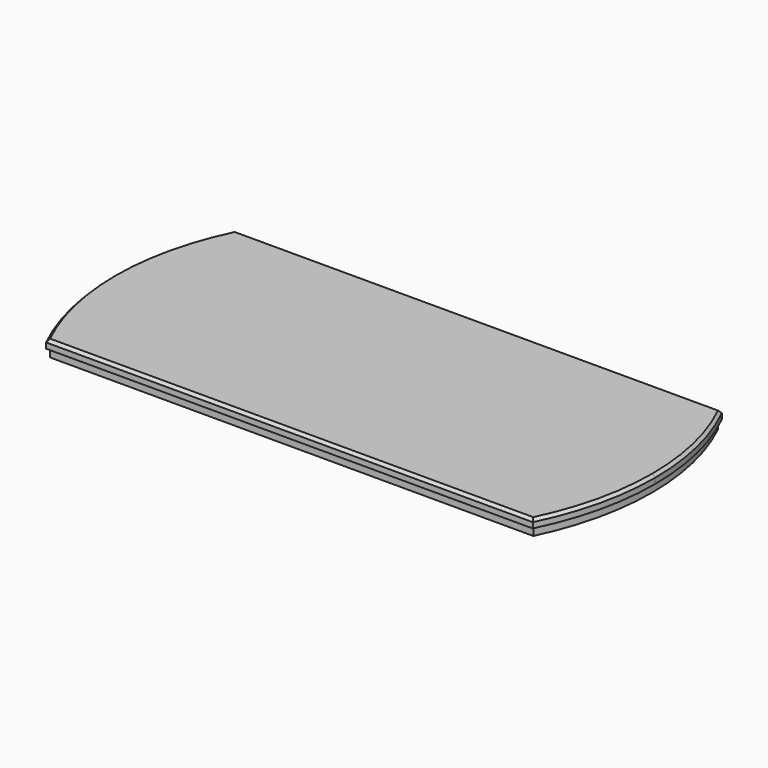
from build123d import *

# Parameters (mm, degrees)
F0_W     = 1244.6
F0_H     = 38.1
F1_DEPTH = 271.4625
F3_DEPTH = 38.101
F4_SIZE  = 6.35
F6_DEPTH = 19.05
F8_DEPTH = 19.05


with BuildPart() as f1:
    # F0 (on Front) → F1 (new body, symmetric)
    with BuildSketch(Plane.XZ):
        Rectangle(F0_W, F0_H)
    extrude(amount=F1_DEPTH, both=True)

    # F2 (on face) → F3 (cut, through all)
    with BuildSketch(Plane.XY.offset(19.05)):
        with BuildLine():
            ThreePointArc((-622.3, 0), (-606.213585, 139.395246), (-558.8, 271.4625))
            Line((-558.8, 271.4625), (-622.3, 271.4625))
            Line((-622.3, 271.4625), (-622.3, 0))
        make_face()
        with BuildLine():
            ThreePointArc((-558.8, -271.4625), (-606.213585, -139.395246), (-622.3, 0))
            Line((-622.3, 0), (-622.3, -271.4625))
            Line((-622.3, -271.4625), (-558.8, -271.4625))
        make_face()
        with BuildLine():
            Line((622.3, 271.4625), (558.8, 271.4625))
            ThreePointArc((558.8, 271.4625), (606.213585, 139.395246), (622.3, 0))
            Line((622.3, 0), (622.3, 271.4625))
        make_face()
        with BuildLine():
            Line((622.3, -271.4625), (622.3, 0))
            ThreePointArc((622.3, 0), (606.213585, -139.395246), (558.8, -271.4625))
            Line((558.8, -271.4625), (622.3, -271.4625))
        make_face()
    extrude(amount=-F3_DEPTH, mode=Mode.SUBTRACT)

    # F4
    f4_edges = [f1.edges().sort_by_distance(p)[0] for p in [
        (622.3, 0, 19.05),
        (0, 271.4625, 19.05),
        (-622.3, 0, 19.05),
        (0, -271.4625, 19.05),
    ]]
    chamfer(f4_edges, length=F4_SIZE)

    # F5 (on face) → F6 (cut)
    with BuildSketch(Plane(origin=(0, 0, -19.05), x_dir=(1, 0, 0), z_dir=(0, 0, -1))):
        with BuildLine():
            ThreePointArc((558.8, -271.4625), (622.3, 0), (558.8, 271.4625))
            Line((558.8, 271.4625), (-558.8, 271.4625))
            ThreePointArc((-558.8, 271.4625), (-622.3, 0), (-558.8, -271.4625))
            Line((-558.8, -271.4625), (558.8, -271.4625))
        make_face()
        with BuildLine():
            ThreePointArc((-554.843312, -265.1125), (-615.95, 0), (-554.843312, 265.1125))
            Line((-554.843312, 265.1125), (554.843312, 265.1125))
            ThreePointArc((554.843312, 265.1125), (615.95, 0), (554.843312, -265.1125))
            Line((554.843312, -265.1125), (-554.843312, -265.1125))
        make_face(mode=Mode.SUBTRACT)
    extrude(amount=-F6_DEPTH, mode=Mode.SUBTRACT)

    # F7 (on face) → F8 (cut)
    with BuildSketch(Plane(origin=(0, 0, -19.05), x_dir=(1, 0, 0), z_dir=(0, 0, -1))):
        with BuildLine():
            ThreePointArc((-438.6834, 136.36498), (-432.3334, 130.01498), (-425.9834, 136.36498))
            Line((-425.9834, 136.36498), (-425.9834, 206.21498))
            ThreePointArc((-425.9834, 206.21498), (-432.3334, 212.56498), (-438.6834, 206.21498))
            Line((-438.6834, 206.21498), (-438.6834, 136.36498))
        make_face()
        with BuildLine():
            ThreePointArc((-425.9834, -136.36498), (-432.3334, -130.01498), (-438.6834, -136.36498))
            Line((-438.6834, -136.36498), (-438.6834, -206.21498))
            ThreePointArc((-438.6834, -206.21498), (-432.3334, -212.56498), (-425.9834, -206.21498))
            Line((-425.9834, -206.21498), (-425.9834, -136.36498))
        make_face()
        with BuildLine():
            Line((438.6834, -206.21498), (438.6834, -136.36498))
            ThreePointArc((438.6834, -136.36498), (432.3334, -130.01498), (425.9834, -136.36498))
            Line((425.9834, -136.36498), (425.9834, -206.21498))
            ThreePointArc((425.9834, -206.21498), (432.3334, -212.56498), (438.6834, -206.21498))
        make_face()
        with BuildLine():
            ThreePointArc((425.9834, 136.36498), (432.3334, 130.01498), (438.6834, 136.36498))
            Line((438.6834, 136.36498), (438.6834, 206.21498))
            ThreePointArc((438.6834, 206.21498), (432.3334, 212.56498), (425.9834, 206.21498))
            Line((425.9834, 206.21498), (425.9834, 136.36498))
        make_face()
    extrude(amount=-F8_DEPTH, mode=Mode.SUBTRACT)


solid = f1.part
